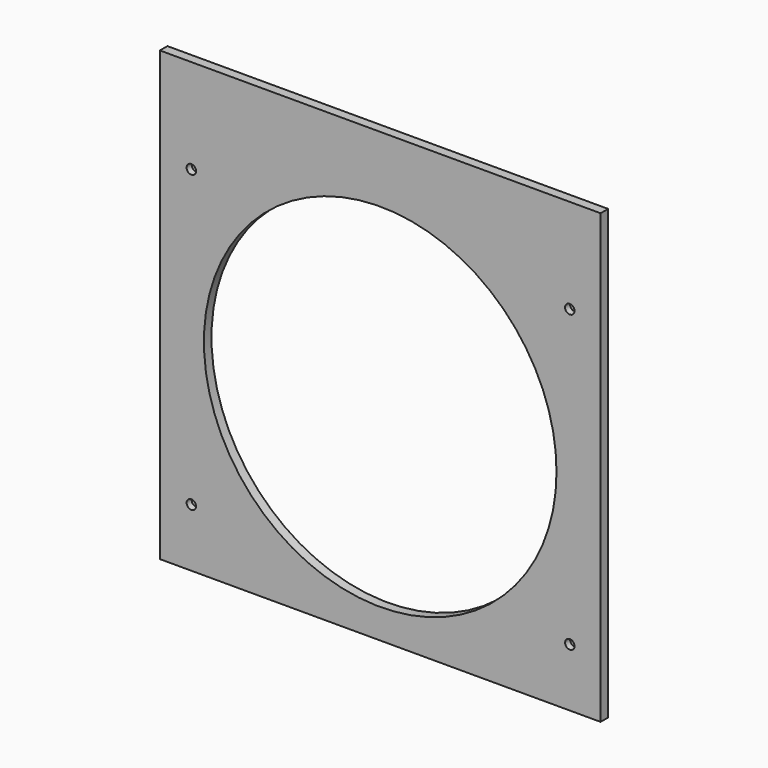
from build123d import *

# Parameters (mm, degrees)
F0_W     = 140
F0_H     = 130.75
F0_R     = 56
F1_DEPTH = 3
F2_R     = 1.5
F3_DEPTH = 30
F4_W     = 15.532549
F4_H     = 12.581359
F4_W_2   = 11.960063
F4_H_2   = 6.057691
F4_W_3   = 11.183437
F4_H_3   = 12.270715
F4_W_4   = 9.940829
F4_H_4   = 9.008877
F5_DEPTH = 1
F6_W     = 140
F6_H     = 3
F7_DEPTH = 11.5


with BuildPart() as f1:
    # F0 (on Front) → F1 (new body)
    with BuildSketch(Plane.XZ):
        Rectangle(F0_W, F0_H)
        Circle(F0_R, mode=Mode.SUBTRACT)
    extrude(amount=F1_DEPTH)

    # F2 (on face) → F3 (cut)
    with BuildSketch(Plane(origin=(0, 0, 0), x_dir=(-1, 0, 0), z_dir=(0, 1, 0))):
        with Locations((-60.222, 46.875)):
            Circle(F2_R)
        with Locations((60, 46.875)):
            Circle(F2_R)
        with Locations((60, -46.875)):
            Circle(F2_R)
        with Locations((-60.222, -46.875)):
            Circle(F2_R)
    extrude(amount=-F3_DEPTH, mode=Mode.SUBTRACT)

    # F4 (on face) → F5 (join)
    with BuildSketch(Plane(origin=(0, 0, 0), x_dir=(-1, 0, 0), z_dir=(0, 1, 0))):
        with Locations((-57.936394, 45.89867)):
            Rectangle(F4_W, F4_H)
        with Locations((-59.101333, -47.762579)):
            Rectangle(F4_W_2, F4_H_2)
        with Locations((58.247046, -46.985948)):
            Rectangle(F4_W_3, F4_H_3)
        with Locations((59.800298, 46.597634)):
            Rectangle(F4_W_4, F4_H_4)
    extrude(amount=-F5_DEPTH)

    # F6 (on face) → F7 (join)
    with BuildSketch(Plane.XY.offset(65.375)):
        with Locations((0, -1.5)):
            Rectangle(F6_W, F6_H)
    extrude(amount=F7_DEPTH)


solid = f1.part
